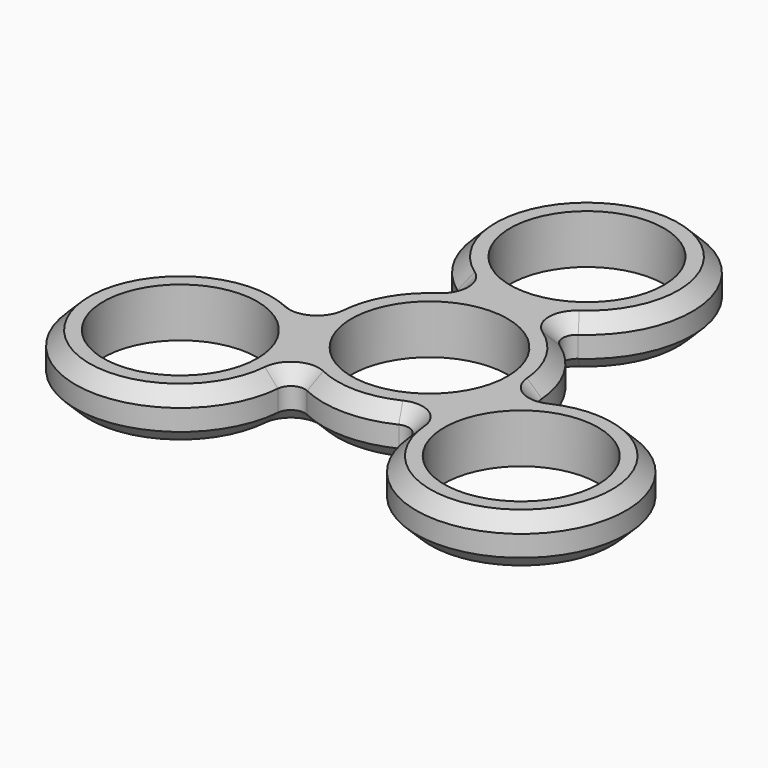
from build123d import *

# Parameters (mm, degrees)
F0_R     = 10.95
F0_R_2   = 11.1
F1_DEPTH = 7
F2_R     = 2
F3_SIZE  = 2


with BuildPart() as f1:
    # F0 (on Top) → F1 (new body)
    with BuildSketch(Plane.XY):
        with BuildLine():
            ThreePointArc((14.915718, -2.351886), (13.104206, 7.502653), (5.522872, 14.05375))
            ThreePointArc((5.522872, 14.05375), (0, 43), (-5.522872, 14.05375))
            ThreePointArc((-5.522872, 14.05375), (-13.104206, 7.502653), (-14.915718, -2.351886))
            ThreePointArc((-14.915718, -2.351886), (-37.174944, -21.462964), (-9.494652, -11.741447))
            ThreePointArc((-9.494652, -11.741447), (0, -15.1), (9.494652, -11.741447))
            ThreePointArc((9.494652, -11.741447), (37.174944, -21.462964), (14.915718, -2.351886))
        make_face()
        with Locations((-24.248711, -14)):
            Circle(F0_R, mode=Mode.SUBTRACT)
        with Locations((24.248711, -14)):
            Circle(F0_R, mode=Mode.SUBTRACT)
        Circle(F0_R_2, mode=Mode.SUBTRACT)
        with Locations((0, 28)):
            Circle(F0_R, mode=Mode.SUBTRACT)
    extrude(amount=F1_DEPTH)

    # F2
    f2_edges = [f1.edges().sort_by_distance(p)[0] for p in [
        (-9.494652, -11.741447, 3.5),
        (9.494652, -11.741447, 3.5),
        (14.915718, -2.351886, 3.5),
        (5.522872, 14.05375, 3.5),
        (-5.522872, 14.05375, 3.5),
        (-14.915718, -2.351886, 3.5),
    ]]
    fillet(f2_edges, radius=F2_R)

    # F3
    f3_edges = [f1.edges().sort_by_distance(p)[0] for p in [
        (37.174944, -21.462964, 0),
        (37.174944, -21.462964, 7),
    ]]
    chamfer(f3_edges, length=F3_SIZE)


solid = f1.part
